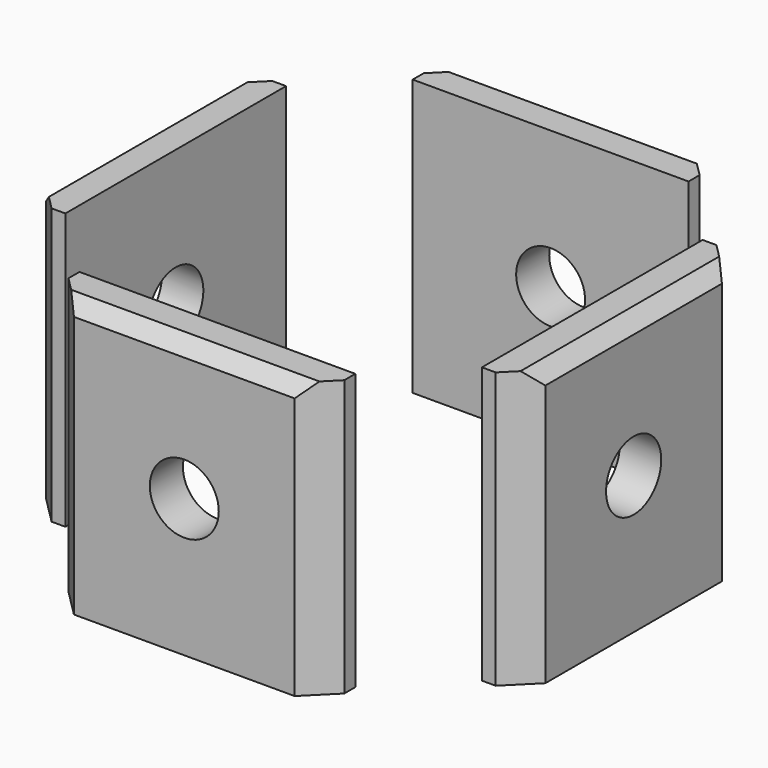
from build123d import *

# Parameters (mm, degrees)
CYLINDER1802_R               = 2.5
CYLINDER1802_DEPTH           = 10
CYLINDER1803_R               = 2.5
CYLINDER1803_DEPTH           = 10
CYLINDER1803_ROLL_ANGLE      = 90
CYLINDER1803_PLACEMENT_ANGLE = 180
CYLINDER1804_R               = 2.5
CYLINDER1804_DEPTH           = 10
CYLINDER1804_ROLL_ANGLE      = 90
CYLINDER1804_PITCH_ANGLE     = 0
CYLINDER1804_PLACEMENT_ANGLE = -90.000001
CYLINDER1801_R               = 2.5
CYLINDER1801_DEPTH           = 10
BOX714_W                     = 20
BOX714_H                     = 3
BOX714_DEPTH                 = 20
BOX715_W                     = 20
BOX715_H                     = 3
BOX715_DEPTH                 = 20
BOX716_W                     = 20
BOX716_H                     = 3
BOX716_DEPTH                 = 20
BOX713_W                     = 20
BOX713_H                     = 3
BOX713_DEPTH                 = 20
CHAMFER063_SIZE              = 2
CHAMFER064_SIZE              = 2
CHAMFER065_SIZE              = 1


with BuildPart() as obj1:
    # Cylinder1802 → Cylinder1802 (new body)
    with BuildSketch(Plane(origin=(12, 0, 30), x_dir=(0, 1, 0), z_dir=(1, 0, 0))):
        Circle(CYLINDER1802_R)
    extrude(amount=CYLINDER1802_DEPTH)


with BuildPart() as obj2:
    # Cylinder1803 → Cylinder1803 (new body)
    with BuildSketch(Plane.XY):
        Circle(CYLINDER1803_R)
    extrude(amount=CYLINDER1803_DEPTH)


with BuildPart() as obj2_1:
    # Cylinder1803 roll: moved
    add(obj2.part.rotate(Axis((0, 0, 0), (1, 0, 0)), CYLINDER1803_ROLL_ANGLE))


with BuildPart() as obj2_2:
    # Cylinder1803 placement: moved
    add(obj2_1.part.moved(Location((0, 12, 30))).rotate(Axis((0, 12, 30), (0, 0, 1)), CYLINDER1803_PLACEMENT_ANGLE))


with BuildPart() as obj3:
    # Cylinder1804 → Cylinder1804 (new body)
    with BuildSketch(Plane.XY):
        Circle(CYLINDER1804_R)
    extrude(amount=CYLINDER1804_DEPTH)


with BuildPart() as obj3_1:
    # Cylinder1804 roll: moved
    add(obj3.part.rotate(Axis((0, 0, 0), (1, 0, 0)), CYLINDER1804_ROLL_ANGLE))


with BuildPart() as obj3_2:
    # Cylinder1804 pitch: moved
    add(obj3_1.part.rotate(Axis((0, 0, 0), (0, 1, 0)), CYLINDER1804_PITCH_ANGLE))


with BuildPart() as obj3_3:
    # Cylinder1804 placement: moved
    add(obj3_2.part.moved(Location((-12, 0, 30))).rotate(Axis((-12, 0, 30), (0, 0, 1)), CYLINDER1804_PLACEMENT_ANGLE))


with BuildPart() as compound894:
    # Cylinder1801 → Cylinder1801 (new body)
    with BuildSketch(Plane(origin=(0, -12, 30), x_dir=(1, 0, 0), z_dir=(0, -1, 0))):
        Circle(CYLINDER1801_R)
    extrude(amount=CYLINDER1801_DEPTH)

    # Compound894: union obj1, obj2, obj3
    add(obj1.part)
    add(obj2_2.part)
    add(obj3_3.part)


with BuildPart() as compound894_1:
    # Compound894 placement: moved
    add(compound894.part.moved(Location((0, 0, -2))))


with BuildPart() as krychle714:
    # Box714 → Box714 (new body)
    with BuildSketch(Plane(origin=(-15.1, -10, 20), x_dir=(0, 1, 0), z_dir=(0, 0, 1))):
        with Locations((10, 1.5)):
            Rectangle(BOX714_W, BOX714_H)
    extrude(amount=BOX714_DEPTH)


with BuildPart() as krychle715:
    # Box715 → Box715 (new body)
    with BuildSketch(Plane(origin=(10, -15.1, 20), x_dir=(-1, 0, 0), z_dir=(0, 0, 1))):
        with Locations((10, 1.5)):
            Rectangle(BOX715_W, BOX715_H)
    extrude(amount=BOX715_DEPTH)


with BuildPart() as krychle716:
    # Box716 → Box716 (new body)
    with BuildSketch(Plane(origin=(15.1, 10, 20), x_dir=(0, -1, 0), z_dir=(0, 0, 1))):
        with Locations((10, 1.5)):
            Rectangle(BOX716_W, BOX716_H)
    extrude(amount=BOX716_DEPTH)


with BuildPart() as chamfer065:
    # Box713 → Box713 (new body)
    with BuildSketch(Plane(origin=(-10, 15.1, 20), x_dir=(1, 0, 0), z_dir=(0, 0, 1))):
        with Locations((10, 1.5)):
            Rectangle(BOX713_W, BOX713_H)
    extrude(amount=BOX713_DEPTH)

    # Compound893: union Krychle714, Krychle715, Krychle716
    add(krychle714.part)
    add(krychle715.part)
    add(krychle716.part)


with BuildPart() as chamfer065_1:
    # Compound893 placement: moved
    add(chamfer065.part.moved(Location((0, 0, -2))))

    # Cut530: cut Compound894
    add(compound894_1.part, mode=Mode.SUBTRACT)


with BuildPart() as chamfer065_2:
    # Cut530 placement: moved
    add(chamfer065_1.part.moved(Location((0, 0, 5))))

    # Chamfer063
    chamfer063_edges = [chamfer065_2.edges().sort_by_distance(p)[0] for p in [
        (-18.1, -10, 33),
        (-18.1, 10, 33),
        (10, -18.1, 33),
        (-10, -18.1, 33),
        (18.1, -10, 33),
    ]]
    chamfer(chamfer063_edges, length=CHAMFER063_SIZE)

    # Chamfer064
    chamfer064_edges = [chamfer065_2.edges().sort_by_distance(p)[0] for p in [
        (18.1, 10, 33),
        (-10, 18.1, 33),
        (10, 18.1, 33),
    ]]
    chamfer(chamfer064_edges, length=CHAMFER064_SIZE)

    # Chamfer065
    chamfer065_edges = [chamfer065_2.edges().sort_by_distance(p)[0] for p in [
        (18.1, 0, 43),
        (0, 18.1, 43),
        (-18.1, 0, 43),
        (0, -18.1, 43),
    ]]
    chamfer(chamfer065_edges, length=CHAMFER065_SIZE)


solid = chamfer065_2.part
